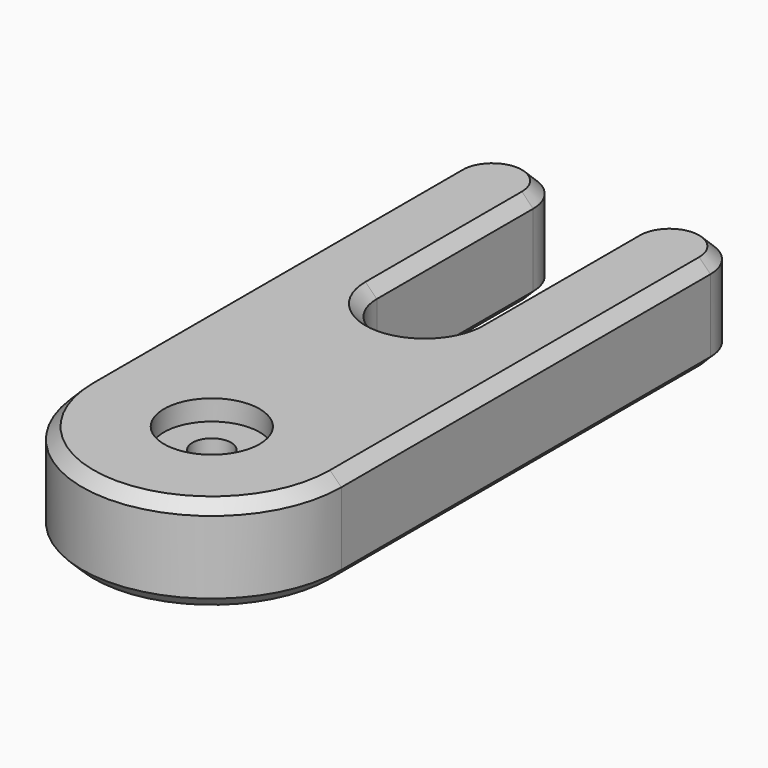
from build123d import *

# Parameters (mm, degrees)
F0_R     = 4.2
F1_DEPTH = 8.4
F2_DEPTH = 6.6
F3_DEPTH = 6.6
F4_T     = -2.5
F5_SIZE  = 1


with BuildPart() as f1:
    # F0 (on Top) → F1 (new body)
    with BuildSketch(Plane.XY):
        with BuildLine():
            Line((4.2, 17.2), (4.2, 0))
            ThreePointArc((4.2, 0), (0, -4.2), (-4.2, 0))
            Line((-4.2, 0), (-4.2, 17.2))
            ThreePointArc((-4.2, 17.2), (-7.8, 20.8), (-11.4, 17.2))
            Line((-11.4, 17.2), (-11.4, -23.4000007438))
            ThreePointArc((-11.4, -23.4000007438), (0, -34.8), (11.4, -23.4000007438))
            Line((11.4, -23.4000007438), (11.4, 17.2))
            ThreePointArc((11.4, 17.2), (7.8, 20.8), (4.2, 17.2))
        make_face()
        Polygon((0, -16.0099165544), (6.4, -19.7049582772), (6.4, -27.0950417228), (0, -30.7900834456), (-6.4, -27.0950417228), (-6.4, -19.7049582772), align=None, mode=Mode.SUBTRACT)
        Polygon((6.4, -27.0950417228), (6.4, -19.7049582772), (0, -16.0099165544), (-6.4, -19.7049582772), (-6.4, -27.0950417228), (0, -30.7900834456), align=None)
        with Locations((0, -23.4)):
            Circle(F0_R, mode=Mode.SUBTRACT)
    extrude(amount=F1_DEPTH)

    # F0 (on Top) → F2 (cut)
    with BuildSketch(Plane.XY):
        Polygon((6.4, -27.0950417228), (6.4, -19.7049582772), (0, -16.0099165544), (-6.4, -19.7049582772), (-6.4, -27.0950417228), (0, -30.7900834456), align=None)
        with Locations((0, -23.4)):
            Circle(F0_R, mode=Mode.SUBTRACT)
    extrude(amount=F2_DEPTH, mode=Mode.SUBTRACT)

    # F5
    f5_edges = [f1.edges().sort_by_distance(p)[0] for p in [
        (11.4, -3.1, 8.4),
        (-11.4, -3.1, 0),
    ]]
    chamfer(f5_edges, length=F5_SIZE)


with BuildPart() as f3:
    # F0 (on Top) → F3 (new body)
    with BuildSketch(Plane.XY):
        with Locations((0, -23.4)):
            Circle(F0_R)
    extrude(amount=F3_DEPTH)

    # F4
    f4_openings = [f3.faces().sort_by_distance(p)[0] for p in [
        (0, -23.4, 6.6),
        (0, -23.4, 0),
    ]]
    offset(amount=F4_T, openings=f4_openings)


solid = Compound([f1.part, f3.part])
